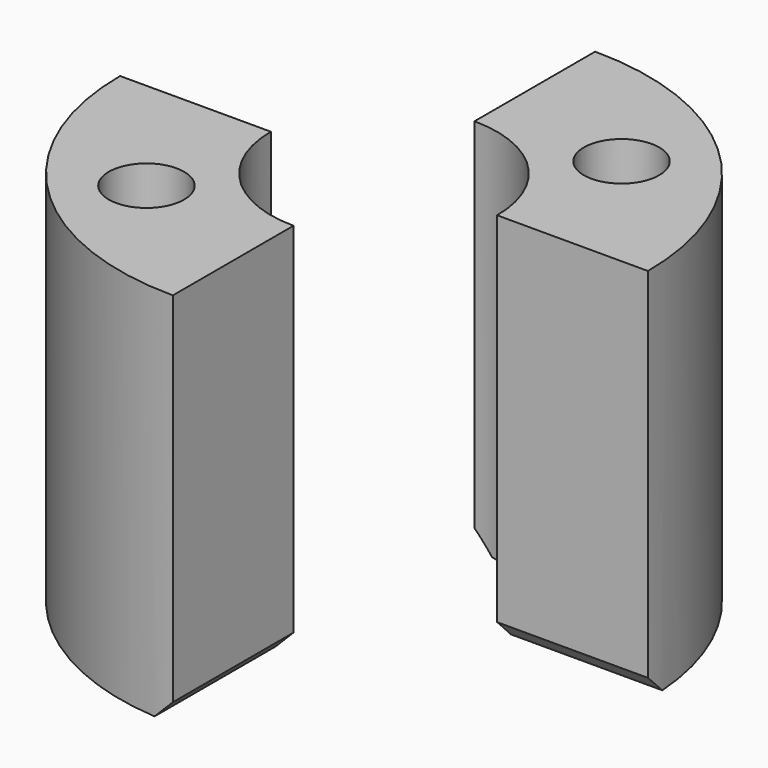
from build123d import *

# Parameters (mm, degrees)
CYLINDER1292_R     = 1
CYLINDER1292_DEPTH = 20
CYLINDER1281_R     = 1
CYLINDER1281_DEPTH = 20
CYLINDER1287_R     = 2
CYLINDER1287_DEPTH = 2
CYLINDER1288_R     = 2
CYLINDER1288_DEPTH = 2
CYLINDER1289_R     = 3
CYLINDER1289_DEPTH = 5
CYLINDER1286_R     = 3
CYLINDER1286_DEPTH = 5
BOX412_W           = 10
BOX412_H           = 20
BOX412_DEPTH       = 10
BOX411_W           = 10
BOX411_H           = 20
BOX411_DEPTH       = 10
TUBE053_R          = 7
TUBE053_R_2        = 1
TUBE053_DEPTH      = 10
CHAMFER011_SIZE    = 0.5


with BuildPart() as obj1:
    # Cylinder1292 → Cylinder1292 (new body)
    with BuildSketch(Plane(origin=(-3.5, -3.5, 0), x_dir=(1, 0, 0), z_dir=(0, 0, 1))):
        Circle(CYLINDER1292_R)
    extrude(amount=CYLINDER1292_DEPTH)


with BuildPart() as compound687:
    # Cylinder1281 → Cylinder1281 (new body)
    with BuildSketch(Plane(origin=(3.5, 3.5, 0), x_dir=(1, 0, 0), z_dir=(0, 0, 1))):
        Circle(CYLINDER1281_R)
    extrude(amount=CYLINDER1281_DEPTH)

    # Compound687: union obj1
    add(obj1.part)


with BuildPart() as obj2:
    # Cylinder1287 → Cylinder1287 (new body)
    with BuildSketch(Plane(origin=(-3.5, -3.5, 0), x_dir=(1, 0, 0), z_dir=(0, 0, 1))):
        Circle(CYLINDER1287_R)
    extrude(amount=CYLINDER1287_DEPTH)


with BuildPart() as compound691:
    # Cylinder1288 → Cylinder1288 (new body)
    with BuildSketch(Plane(origin=(3.5, 3.5, 0), x_dir=(1, 0, 0), z_dir=(0, 0, 1))):
        Circle(CYLINDER1288_R)
    extrude(amount=CYLINDER1288_DEPTH)

    # Compound691: union obj2
    add(obj2.part)


with BuildPart() as obj3:
    # Cylinder1289 → Cylinder1289 (new body)
    with BuildSketch(Plane.XY.offset(5)):
        Circle(CYLINDER1289_R)
    extrude(amount=CYLINDER1289_DEPTH)


with BuildPart() as obj4:
    # Cylinder1286 → Cylinder1286 (new body)
    with BuildSketch(Plane.XY):
        Circle(CYLINDER1286_R)
    extrude(amount=CYLINDER1286_DEPTH)


with BuildPart() as krychle412:
    # Box412 → Box412 (new body)
    with BuildSketch(Plane(origin=(0, 0, 0), x_dir=(0, 1, 0), z_dir=(0, 0, 1))):
        with Locations((5, 10)):
            Rectangle(BOX412_W, BOX412_H)
    extrude(amount=BOX412_DEPTH)


with BuildPart() as compound690:
    # Box411 → Box411 (new body)
    with BuildSketch(Plane(origin=(0, 0, 0), x_dir=(0, -1, 0), z_dir=(0, 0, 1))):
        with Locations((5, 10)):
            Rectangle(BOX411_W, BOX411_H)
    extrude(amount=BOX411_DEPTH)

    # Compound690: union Krychle412
    add(krychle412.part)


with BuildPart() as chamfer011:
    # Tube053 → Tube053 (new body)
    with BuildSketch(Plane.XY):
        Circle(TUBE053_R)
        Circle(TUBE053_R_2, mode=Mode.SUBTRACT)
    extrude(amount=TUBE053_DEPTH)

    # Cut487: cut Compound690
    add(compound690.part, mode=Mode.SUBTRACT)

    # Cut485: cut obj4
    add(obj4.part, mode=Mode.SUBTRACT)

    # Cut482: cut obj3
    add(obj3.part, mode=Mode.SUBTRACT)

    # Cut486: cut Compound691
    add(compound691.part, mode=Mode.SUBTRACT)

    # Cut481: cut Compound687
    add(compound687.part, mode=Mode.SUBTRACT)

    # Chamfer011
    chamfer011_edges = [chamfer011.edges().sort_by_distance(p)[0] for p in [
        (0, 5, 0),
        (5, 0, 0),
        (0, -5, 0),
        (-5, 0, 0),
    ]]
    chamfer(chamfer011_edges, length=CHAMFER011_SIZE)


solid = chamfer011.part
